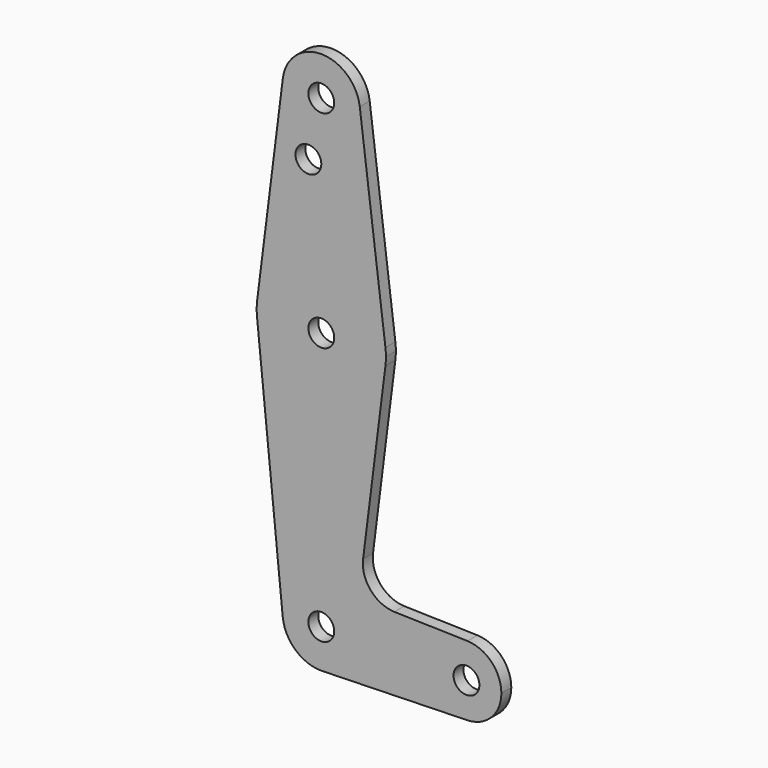
from build123d import *

# Parameters (mm, degrees)
F0_R     = 3.175
F1_DEPTH = 3.048


with BuildPart() as f1:
    # F0 (on Front) → F1 (new body)
    with BuildSketch(Plane.XZ):
        with BuildLine():
            ThreePointArc((-9.450293, 115.490625), (-0.596483, 104.793695), (9.525, 114.3))
            ThreePointArc((9.525, 114.3), (9.506305, 114.896483), (9.450293, 115.490625))
            ThreePointArc((9.450293, 115.490625), (0, 123.825), (-9.450293, 115.490625))
        make_face()
        with Locations((0, 114.3)):
            Circle(F0_R, mode=Mode.SUBTRACT)
        with BuildLine():
            ThreePointArc((9.450293, 115.490625), (9.506305, 114.896483), (9.525, 114.3))
            ThreePointArc((9.525, 114.3), (-0.596483, 104.793695), (-9.450293, 115.490625))
            Line((-9.450293, 115.490625), (-15.750488, 65.484375))
            ThreePointArc((-15.750488, 65.484375), (0, 79.375), (15.750488, 65.484375))
            Line((15.750488, 65.484375), (9.450293, 115.490625))
        make_face()
        with Locations((-3.175, 100.0252)):
            Circle(F0_R, mode=Mode.SUBTRACT)
        with BuildLine():
            ThreePointArc((15.875, 63.5), (15.843841, 64.494139), (15.750488, 65.484375))
            ThreePointArc((15.750488, 65.484375), (0, 79.375), (-15.750488, 65.484375))
            ThreePointArc((-15.750488, 65.484375), (-15.873744, 63.699705), (-15.795426, 61.9125))
            ThreePointArc((-15.795426, 61.9125), (-0.199705, 47.626256), (15.750488, 61.515625))
            ThreePointArc((15.750488, 61.515625), (15.843841, 62.505861), (15.875, 63.5))
        make_face()
        with Locations((0, 63.5)):
            Circle(F0_R, mode=Mode.SUBTRACT)
        with BuildLine():
            ThreePointArc((15.750488, 61.515625), (-0.199705, 47.626256), (-15.795426, 61.9125))
            Line((-15.795426, 61.9125), (-9.477255, -0.9525))
            ThreePointArc((-9.477255, -0.9525), (-7.063929, 6.389564), (0, 9.525))
            ThreePointArc((0, 9.525), (0.253535, 9.521625), (0.506891, 9.511503))
            ThreePointArc((0.506891, 9.511503), (6.912082, 6.553529), (9.525, 0))
            ThreePointArc((9.525, 0), (6.912082, -6.553529), (0.506891, -9.511503))
            Line((0.506891, -9.511503), (35.885598, -8.569463))
            ThreePointArc((35.885598, -8.569463), (27.084916, 0), (35.885598, 8.569463))
            Line((35.885598, 8.569463), (17.942799, 9.047231))
            ThreePointArc((17.942799, 9.047231), (12.122303, 11.815881), (10.266572, 17.988389))
            Line((10.266572, 17.988389), (15.750488, 61.515625))
        make_face()
        with BuildLine():
            ThreePointArc((0, 9.525), (-7.063929, 6.389564), (-9.477255, -0.9525))
            ThreePointArc((-9.477255, -0.9525), (-6.389564, -7.063929), (0, -9.525))
            Line((0, -9.525), (0.506891, -9.511503))
            ThreePointArc((0.506891, -9.511503), (6.912082, -6.553529), (9.525, 0))
            ThreePointArc((9.525, 0), (6.912082, 6.553529), (0.506891, 9.511503))
            Line((0.506891, 9.511503), (0, 9.525))
        make_face()
        Circle(F0_R, mode=Mode.SUBTRACT)
        with BuildLine():
            Line((0.506891, -9.511503), (0, -9.525))
            ThreePointArc((0, -9.525), (0.253535, -9.521625), (0.506891, -9.511503))
        make_face()
        with BuildLine():
            ThreePointArc((44.229916, 0), (41.799234, 5.980454), (35.885598, 8.569463))
            ThreePointArc((35.885598, 8.569463), (27.084916, 0), (35.885598, -8.569463))
            ThreePointArc((35.885598, -8.569463), (41.799234, -5.980454), (44.229916, 0))
        make_face()
        with Locations((35.657416, 0)):
            Circle(F0_R, mode=Mode.SUBTRACT)
    extrude(amount=F1_DEPTH)


solid = f1.part
